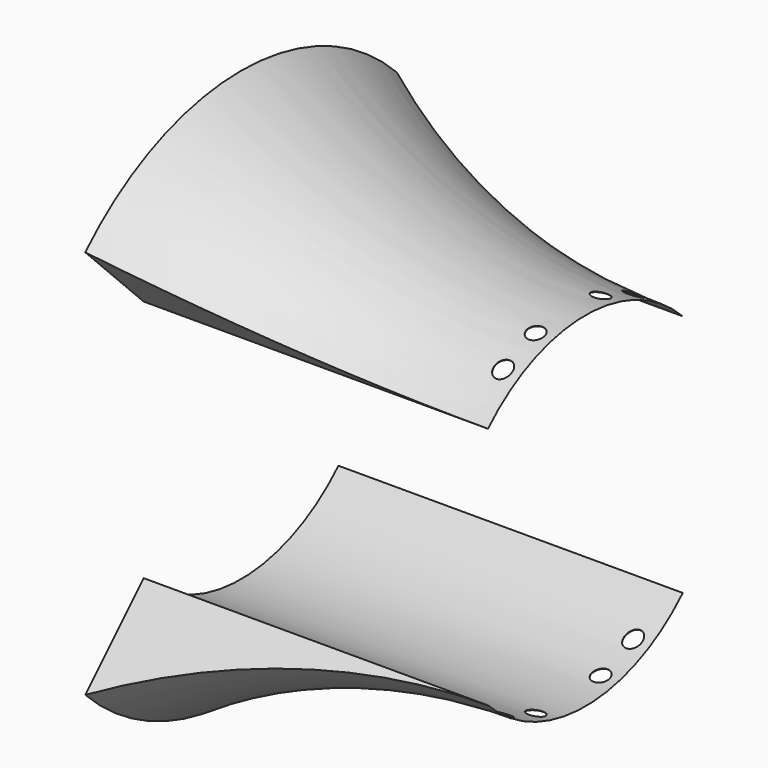
from build123d import *

# Parameters (mm, degrees)
F1_ANGLE_BACK = 45
F1_ANGLE      = 90
F3_R          = 2.5
F4_DEPTH      = 150
F5_DEPTH      = 150


with BuildPart() as f1:
    # F0 (on Front) → F1 (revolve)
    with BuildSketch(Plane.XZ, mode=Mode.PRIVATE) as f1_sk:
        with BuildLine():
            Line((-100, 50), (0, 50))
            ThreePointArc((0, 50), (-52.2015325446, 57.6615581848), (-100, 80))
            Line((-100, 80), (-100, 50))
        make_face()
    revolve(f1_sk.sketch.rotate(Axis((-1.5377178788, 0, 0), (1, 0, 0)), -F1_ANGLE_BACK), axis=Axis((-1.5377178788, 0, 0), (1, 0, 0)), revolution_arc=F1_ANGLE)


with BuildPart() as f2_1:
    # F2: instance of F1
    add(f1.part.mirror(Plane.XY))

    # F3 (on Top) → F4 (cut)
    with BuildSketch(Plane.XY):
        with Locations((-5, 11.793)):
            Circle(F3_R)
        with Locations((-5, 23.586)):
            Circle(F3_R)
        with Locations((-5, -23.586)):
            Circle(F3_R)
        with Locations((-5, -11.793)):
            Circle(F3_R)
    extrude(amount=-F4_DEPTH, mode=Mode.SUBTRACT)


with BuildPart() as f1_1:
    add(f1.part)

    # F3 (on Top) → F5 (cut)
    with BuildSketch(Plane.XY):
        with Locations((-5, 11.793)):
            Circle(F3_R)
        with Locations((-5, 23.586)):
            Circle(F3_R)
        with Locations((-5, -23.586)):
            Circle(F3_R)
        with Locations((-5, -11.793)):
            Circle(F3_R)
    extrude(amount=F5_DEPTH, mode=Mode.SUBTRACT)


solid = Compound([f2_1.part, f1_1.part])
